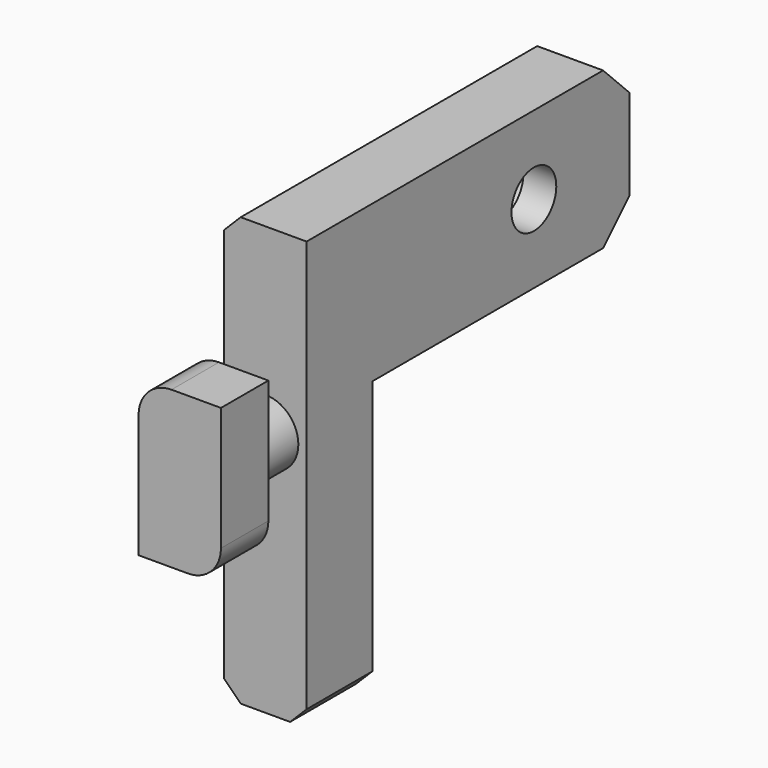
from build123d import *

# Parameters (mm, degrees)
CYLINDER024_R     = 3
CYLINDER024_DEPTH = 3
CYLINDER027_R     = 1.7
CYLINDER027_DEPTH = 10
CYLINDER030_R     = 2
CYLINDER030_DEPTH = 6
BOX038_W          = 5
BOX038_H          = 5
BOX038_DEPTH      = 26
CHAMFER011_SIZE   = 1
BOX032_W          = 5
BOX032_H          = 24.5
BOX032_DEPTH      = 9.5
CHAMFER005_SIZE   = 2
CHAMFER006_SIZE   = 1
BOX034_W          = 5
BOX034_H          = 4
BOX034_DEPTH      = 9.5
FILLET_R          = 2
CHAMFER013_SIZE   = 0.4


with BuildPart() as cylinder024:
    # Cylinder024 → Cylinder024 (new body)
    with BuildSketch(Plane(origin=(-34, 8.25, 5.75), x_dir=(0, 0, 1), z_dir=(-1, 0, 0))):
        Circle(CYLINDER024_R)
    extrude(amount=CYLINDER024_DEPTH)


with BuildPart() as cylinder027:
    # Cylinder027 → Cylinder027 (new body)
    with BuildSketch(Plane(origin=(-27, 8.25, 5.75), x_dir=(0, 0, 1), z_dir=(-1, 0, 0))):
        Circle(CYLINDER027_R)
    extrude(amount=CYLINDER027_DEPTH)


with BuildPart() as cylinder030:
    # Cylinder030 → Cylinder030 (new body)
    with BuildSketch(Plane(origin=(-34.5, -7.5, -0.5), x_dir=(1, 0, 0), z_dir=(0, -1, 0))):
        Circle(CYLINDER030_R)
    extrude(amount=CYLINDER030_DEPTH)


with BuildPart() as chamfer011:
    # Box038 → Box038 (new body)
    with BuildSketch(Plane(origin=(-37, -9, -15.5), x_dir=(1, 0, 0), z_dir=(0, 0, 1))):
        with Locations((2.5, 2.5)):
            Rectangle(BOX038_W, BOX038_H)
    extrude(amount=BOX038_DEPTH)

    # Chamfer011
    chamfer011_edges = [chamfer011.edges().sort_by_distance(p)[0] for p in [
        (-37, -6.5, 10.5),
        (-37, -6.5, -15.5),
        (-32, -6.5, -15.5),
    ]]
    chamfer(chamfer011_edges, length=CHAMFER011_SIZE)


with BuildPart() as chamfer006:
    # Box032 → Box032 (new body)
    with BuildSketch(Plane(origin=(-37, -9, 1), x_dir=(1, 0, 0), z_dir=(0, 0, 1))):
        with Locations((2.5, 12.25)):
            Rectangle(BOX032_W, BOX032_H)
    extrude(amount=BOX032_DEPTH)

    # Chamfer005
    chamfer005_edges = [chamfer006.edges().sort_by_distance(p)[0] for p in [
        (-34.5, 15.5, 1),
        (-34.5, 15.5, 10.5),
    ]]
    chamfer(chamfer005_edges, length=CHAMFER005_SIZE)

    # Chamfer006
    chamfer006_edges = [chamfer006.edges().sort_by_distance(p)[0] for p in [
        (-37, 2.25, 10.5),
        (-37, 14.5, 9.5),
        (-37, 15.5, 5.75),
        (-37, 2.25, 1),
        (-37, 14.5, 2),
    ]]
    chamfer(chamfer006_edges, length=CHAMFER006_SIZE)


with BuildPart() as cut007016010:
    # Box034 → Box034 (new body)
    with BuildSketch(Plane(origin=(-37, -15, 1), x_dir=(1, 0, 0), z_dir=(0, 0, 1))):
        with Locations((2.5, 2)):
            Rectangle(BOX034_W, BOX034_H)
    extrude(amount=BOX034_DEPTH)

    # Fillet
    fillet_edges = [cut007016010.edges().sort_by_distance(p)[0] for p in [
        (-37, -13, 10.5),
        (-32, -13, 1),
    ]]
    fillet(fillet_edges, radius=FILLET_R)


with BuildPart() as cut007016010_1:
    # Fillet placement: moved
    add(cut007016010.part.moved(Location((0, -0.25, -6.25))))

    # Chamfer013
    chamfer013_edges = [cut007016010_1.edges().sort_by_distance(p)[0] for p in [
        (-37, -11.25, -1.5),
        (-36.414214, -11.25, 3.664214),
        (-35.5, -11.25, -5.25),
        (-32.585786, -11.25, -4.664214),
        (-32, -11.25, 0.5),
        (-33.5, -11.25, 4.25),
    ]]
    chamfer(chamfer013_edges, length=CHAMFER013_SIZE)


with BuildPart() as cut007016010_2:
    # Chamfer013 placement: moved
    add(cut007016010_1.part.moved(Location((0, -0.25, 0))))

    # Fusion003007006014: union Cylinder030, Chamfer011, Chamfer006
    add(cylinder030.part)
    add(chamfer011.part)
    add(chamfer006.part)

    # Cut007016009: cut Cylinder027
    add(cylinder027.part, mode=Mode.SUBTRACT)

    # Cut007016010: cut Cylinder024
    add(cylinder024.part, mode=Mode.SUBTRACT)


solid = cut007016010_2.part
